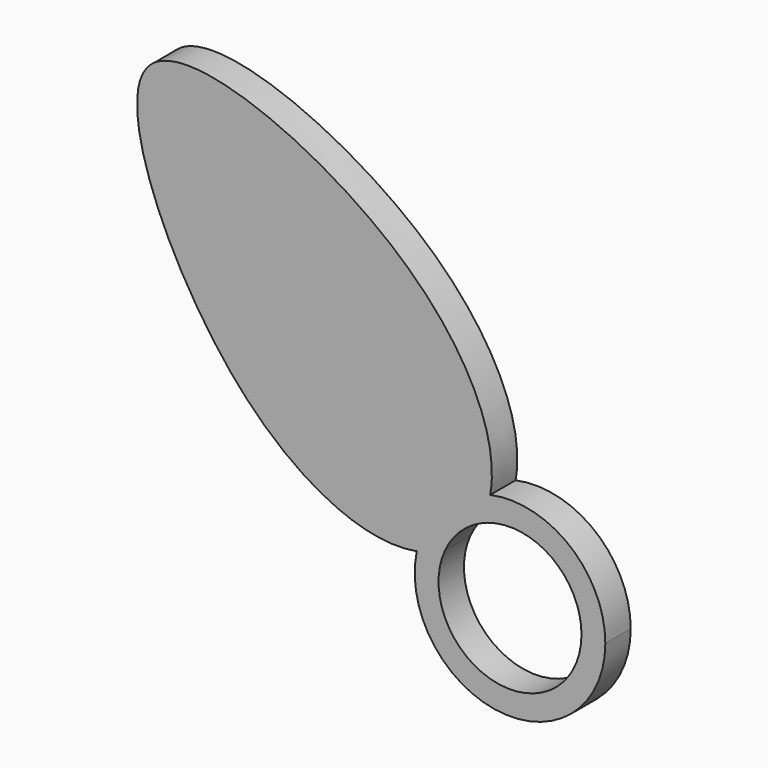
from build123d import *

# Parameters (mm, degrees)
F1_DEPTH = 2


with BuildPart() as f1:
    # F0 (on Front) → F1 (new body)
    with BuildSketch(Plane.XZ):
        with BuildLine():
            ThreePointArc((-1.8908528339, 4.083463672), (2.4229282126, 3.7920204214), (4.5, 0))
            ThreePointArc((4.5, 0), (-0.9649113698, -4.3953323024), (-4.0861982438, 1.88493605))
            add(Edge.make_bspline(
                [(-4.0861982438, 1.88493605), (-4.6288817571, 1.5815505444), (-5.2286987053, 1.3621783459), (-5.8699100609, 1.2426406871)],
                knots=[0.9613234678, 0.9613234678, 0.9613234678, 0.9613234678, 1, 1, 1, 1], degree=3))
            ThreePointArc((-5.8699100609, 1.2426406871), (-0.6247157893, -5.9673888915), (6, 0))
            ThreePointArc((6, 0), (3.7750180605, 4.6636078997), (-1.2497462142, 5.8684013496))
            add(Edge.make_bspline(
                [(-1.2497462142, 5.8684013496), (-1.3691246524, 5.2268848968), (-1.5880681115, 4.6266370433), (-1.8908528339, 4.083463672)],
                knots=[0.8568952038, 0.8568952038, 0.8568952038, 0.8568952038, 0.8955592239, 0.8955592239, 0.8955592239, 0.8955592239], degree=3))
        make_face()
        with BuildLine():
            ThreePointArc((-4.0861982438, 1.88493605), (-3.1842841931, 3.1796751685), (-1.8908528339, 4.083463672))
            add(Edge.make_bspline(
                [(-1.2497462142, 5.8684013496), (-1.3691246524, 5.2268848968), (-1.5880681115, 4.6266370433), (-1.8908528339, 4.083463672)],
                knots=[0.8568952038, 0.8568952038, 0.8568952038, 0.8568952038, 0.8955592239, 0.8955592239, 0.8955592239, 0.8955592239], degree=3))
            ThreePointArc((-1.2497462142, 5.8684013496), (-4.245208098, 4.2400717216), (-5.8699100609, 1.2426406871))
            add(Edge.make_bspline(
                [(-4.0861982438, 1.88493605), (-4.6288817571, 1.5815505444), (-5.2286987053, 1.3621783459), (-5.8699100609, 1.2426406871)],
                knots=[0.9613234678, 0.9613234678, 0.9613234678, 0.9613234678, 1, 1, 1, 1], degree=3))
        make_face()
        with BuildLine():
            ThreePointArc((-5.8699100609, 1.2426406871), (-4.245208098, 4.2400717216), (-1.2497462142, 5.8684013496))
            add(Edge.make_bspline(
                [(-5.8699100609, 1.2426406871), (-9.2268988882, 0.6168149256), (-18.7309347957, 5.082703276), (-28.3915813767, 28.3905215152), (-5.079350829, 18.7312919984), (-0.6245975873, 9.2278281905), (-1.2497462142, 5.8684013496)],
                knots=[0, 0, 0, 0, 0.2024865673, 0.4284550198, 0.6544234723, 0.8568952038, 0.8568952038, 0.8568952038, 0.8568952038], degree=3))
        make_face()
    extrude(amount=F1_DEPTH)


solid = f1.part
